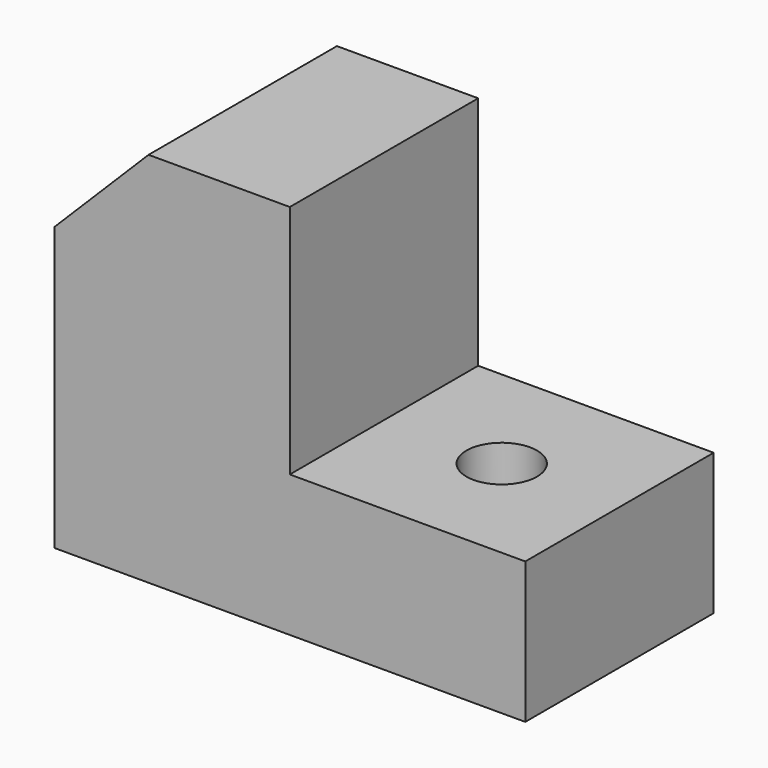
from build123d import *

# Parameters (mm, degrees)
F0_W     = 100
F0_H     = 50
F0_R     = 7.5
F1_DEPTH = 80
F2_W     = 50
F2_H     = 50
F3_DEPTH = 50
F4_SIZE  = 20


with BuildPart() as f1:
    # F0 (on Top) → F1 (new body)
    with BuildSketch(Plane.XY):
        with Locations((50, 25)):
            Rectangle(F0_W, F0_H)
        with Locations((75, 25)):
            Circle(F0_R, mode=Mode.SUBTRACT)
    extrude(amount=F1_DEPTH)

    # F2 (on face) → F3 (cut, through all)
    with BuildSketch(Plane.XZ):
        with Locations((75, 55)):
            Rectangle(F2_W, F2_H)
    extrude(amount=-F3_DEPTH, mode=Mode.SUBTRACT)

    # F4
    f4_edges = [f1.edges().sort_by_distance(p)[0] for p in [
        (0, 25, 80),
    ]]
    chamfer(f4_edges, length=F4_SIZE)


solid = f1.part
